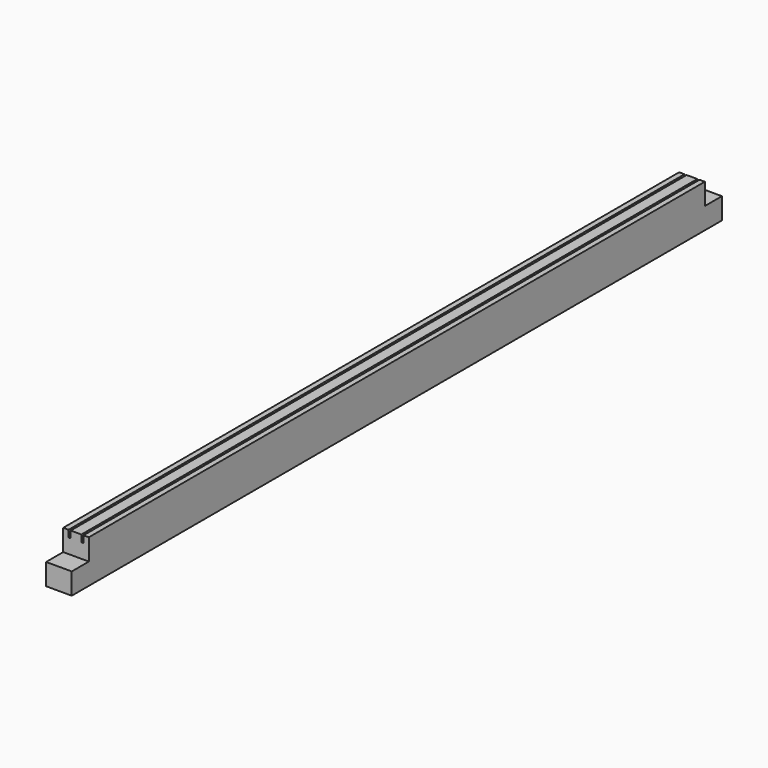
from build123d import *

# Parameters (mm, degrees)
F1_DEPTH = 603.25
F2_W     = 31.75
F2_H     = 31.75
F3_DEPTH = 38.101


with BuildPart() as f1:
    # F0 (on Front) → F1 (new body, symmetric)
    with BuildSketch(Plane.XZ):
        Polygon((-19.05, -31.75), (19.05, -31.75), (19.05, 31.75), (11.1125, 31.75), (11.1125, 21.59), (7.9375, 21.59), (7.9375, 31.75), (-7.9375, 31.75), (-7.9375, 21.59), (-11.1125, 21.59), (-11.1125, 31.75), (-19.05, 31.75), align=None)
    extrude(amount=F1_DEPTH, both=True)

    # F2 (on face) → F3 (cut, through all)
    with BuildSketch(Plane(origin=(-19.05, 0, 0), x_dir=(0, -1, 0), z_dir=(-1, 0, 0))):
        with Locations((587.375, 15.875)):
            Rectangle(F2_W, F2_H)
        with Locations((-587.375, 15.875)):
            Rectangle(F2_W, F2_H)
    extrude(amount=-F3_DEPTH, mode=Mode.SUBTRACT)


solid = f1.part
